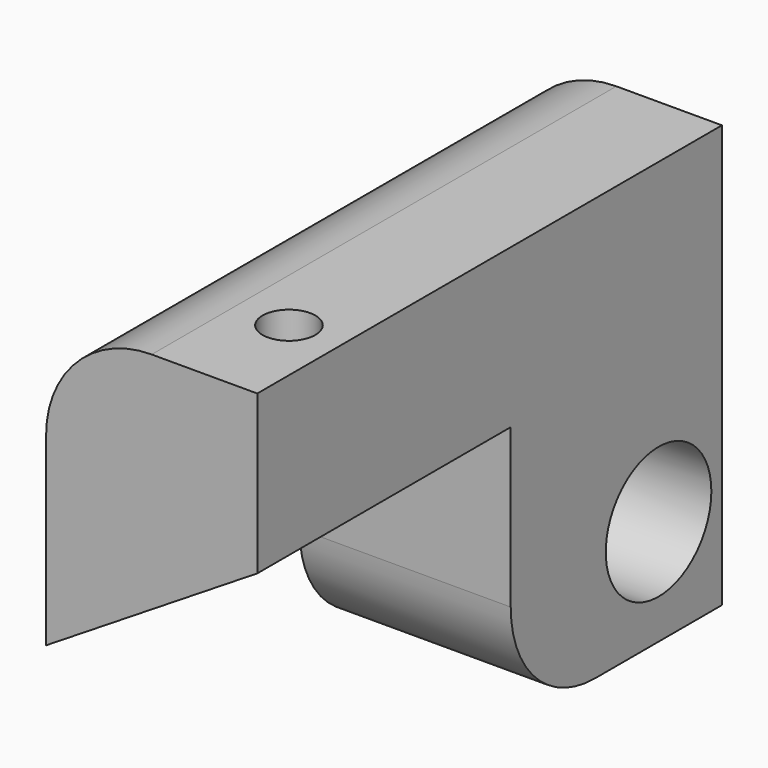
from build123d import *

# Parameters (mm, degrees)
F0_W           = 50.8
F0_H           = 25.4
F1_DEPTH       = 63.5
F2_DEPTH       = 139.7
F3_R           = 25.4
F5_D           = 19.05
F5_CBORE_D     = 31.75
F5_CBORE_DEPTH = 25.4
F7_D           = 12.7


with BuildPart() as f1:
    # F0 (on Front) → F1 (new body)
    with BuildSketch(Plane.XZ):
        with BuildLine():
            Line((25.4, 50.8), (0, 50.8))
            ThreePointArc((0, 50.8), (-17.960512, 43.360512), (-25.4, 25.4))
            Line((-25.4, 25.4), (-25.4, -19.05))
            Line((-25.4, -19.05), (25.4, 12.7))
            Line((25.4, 12.7), (25.4, 50.8))
        make_face()
        Polygon((25.4, -25.4), (25.4, 12.7), (-25.4, -19.05), (-25.4, -25.4), align=None)
        with Locations((0, -38.1)):
            Rectangle(F0_W, F0_H)
    extrude(amount=F1_DEPTH)

    # F0 (on Front) → F2 (join)
    with BuildSketch(Plane.XZ):
        with BuildLine():
            Line((25.4, 50.8), (0, 50.8))
            ThreePointArc((0, 50.8), (-17.960512, 43.360512), (-25.4, 25.4))
            Line((-25.4, 25.4), (-25.4, -19.05))
            Line((-25.4, -19.05), (25.4, 12.7))
            Line((25.4, 12.7), (25.4, 50.8))
        make_face()
    extrude(amount=F2_DEPTH)

    # F3
    f3_edges = [f1.edges().sort_by_distance(p)[0] for p in [
        (0, -63.5, -50.8),
    ]]
    fillet(f3_edges, radius=F3_R)

    # F5 (through all)
    with Locations(Plane.YZ.offset(25.4)):
        with Locations((-19.05, -25.4)):
            CounterBoreHole(F5_D / 2, F5_CBORE_D / 2, F5_CBORE_DEPTH)

    # F7 (through all)
    with Locations(Plane.XY.offset(50.8)):
        with Locations((12.7, -114.3)):
            Hole(F7_D / 2)


solid = f1.part
